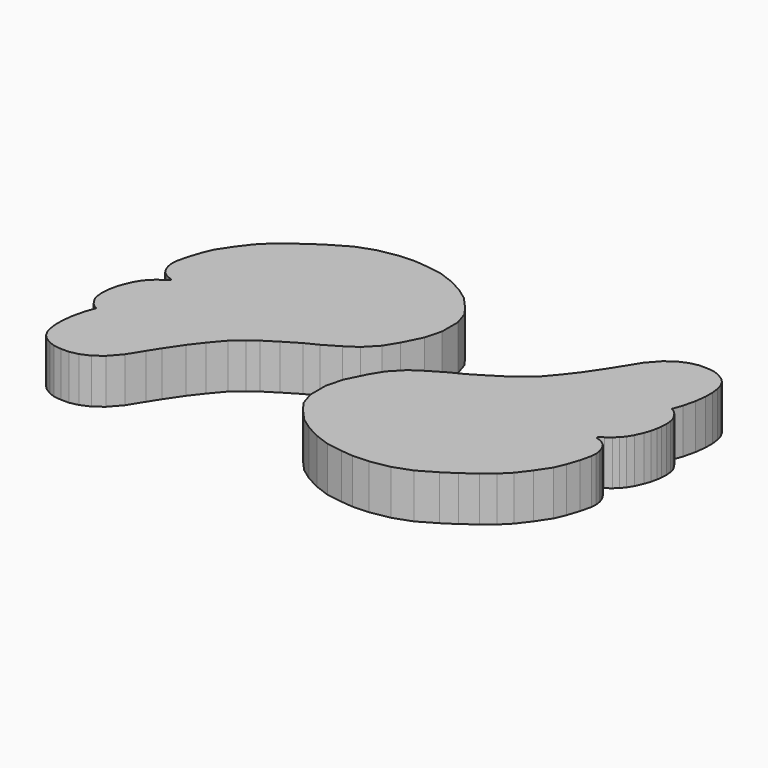
from build123d import *

# Parameters (mm, degrees)
PAD036_DEPTH            = 5
BODY036_PLACEMENT_ANGLE = 180
PAD035_DEPTH            = 5


with BuildPart() as body036:
    # Sketch038 → Pad036 (new body)
    with BuildSketch(Plane.XY):
        Polygon((-0.715895, 10.459235), (0.958153, 11.443971), (2.336782, 12.133285), (4.060069, 13.167257), (5.537171, 14.102756), (6.536532, 14.831632), (7.712062, 15.853839), (8.973101, 17.336113), (10.079276, 18.774139), (11.296068, 20.566143), (12.092514, 21.827183), (13.116936, 23.475929), (14.223111, 24.736969), (15.240791, 25.489166), (16.280596, 25.931637), (17.221134, 26.137039), (18.110924, 26.137039), (18.926565, 26.048061), (19.579077, 25.810783), (20.261248, 25.395548), (20.720972, 24.935823), (21.062059, 24.312971), (21.241928, 23.641508), (21.345737, 22.840698), (21.345737, 21.87676), (21.197439, 20.690374), (20.871256, 19.321636), (20.485682, 18.239059), (20.894186, 17.997505), (21.202349, 17.699284), (21.480688, 17.301653), (21.749088, 16.804617), (21.858437, 16.327463), (21.90814, 15.76084), (21.878248, 15.092189), (21.808664, 14.545448), (21.659552, 13.879419), (21.430916, 13.203449), (21.042017, 12.334372), (20.664268, 11.708105), (20.256699, 11.221009), (19.799425, 10.813439), (19.252686, 10.395929), (18.77553, 10.048003), (18.764149, 9.924158), (18.923201, 9.834691), (19.221422, 9.765106), (19.569347, 9.566292), (19.998131, 9.245623), (20.23671, 8.897697), (20.435524, 8.450364), (20.544872, 8.11238), (20.634338, 7.525877), (20.584635, 6.919492), (20.302982, 5.715654), (19.850153, 4.339052), (19.361095, 3.179808), (18.328644, 1.640186), (17.289362, 0.272043), (16.238798, -0.778522), (15.043327, -1.720408), (13.576158, -2.8072), (12.181441, -3.71286), (10.236815, -4.842392), (8.226252, -5.56692), (6.107007, -5.947297), (4.295688, -6.01975), (2.991537, -5.892957), (1.173591, -5.613963), (-0.443623, -5.019885), (-1.961825, -4.227778), (-3.248996, -3.303655), (-4.536168, -1.884467), (-5.262265, -0.86133), (-5.75733, 0.656871), (-5.75733, 2.868166), (-5.262265, 4.716413), (-4.237876, 6.772507), (-3.346758, 8.224701), (-2.043983, 9.573533), align=None)
    extrude(amount=PAD036_DEPTH)


with BuildPart() as body036_1:
    # Body036 placement: moved
    add(body036.part.moved(Location((-10, 20, -5))).rotate(Axis((-10, 20, -5), (0, 0, 1)), BODY036_PLACEMENT_ANGLE))


with BuildPart() as fusion004:
    # Sketch037 → Pad035 (new body)
    with BuildSketch(Plane.XY):
        Polygon((-0.715895, 10.459235), (0.958153, 11.443971), (2.336782, 12.133285), (4.060069, 13.167257), (5.537171, 14.102756), (6.536532, 14.831632), (7.712062, 15.853839), (8.973101, 17.336113), (10.079276, 18.774139), (11.296068, 20.566143), (12.092514, 21.827183), (13.116936, 23.475929), (14.223111, 24.736969), (15.240791, 25.489166), (16.280596, 25.931637), (17.221134, 26.137039), (18.110924, 26.137039), (18.926565, 26.048061), (19.579077, 25.810783), (20.261248, 25.395548), (20.720972, 24.935823), (21.062059, 24.312971), (21.241928, 23.641508), (21.345737, 22.840698), (21.345737, 21.87676), (21.197439, 20.690374), (20.871256, 19.321636), (20.485682, 18.239059), (20.894186, 17.997505), (21.202349, 17.699284), (21.480688, 17.301653), (21.749088, 16.804617), (21.858437, 16.327463), (21.90814, 15.76084), (21.878248, 15.092189), (21.808664, 14.545448), (21.659552, 13.879419), (21.430916, 13.203449), (21.042017, 12.334372), (20.664268, 11.708105), (20.256699, 11.221009), (19.799425, 10.813439), (19.252686, 10.395929), (18.77553, 10.048003), (18.764149, 9.924158), (18.923201, 9.834691), (19.221422, 9.765106), (19.569347, 9.566292), (19.998131, 9.245623), (20.23671, 8.897697), (20.435524, 8.450364), (20.544872, 8.11238), (20.634338, 7.525877), (20.584635, 6.919492), (20.302982, 5.715654), (19.850153, 4.339052), (19.361095, 3.179808), (18.328644, 1.640186), (17.289362, 0.272043), (16.238798, -0.778522), (15.043327, -1.720408), (13.576158, -2.8072), (12.181441, -3.71286), (10.236815, -4.842392), (8.226252, -5.56692), (6.107007, -5.947297), (4.295688, -6.01975), (2.991537, -5.892957), (1.173591, -5.613963), (-0.443623, -5.019885), (-1.961825, -4.227778), (-3.248996, -3.303655), (-4.536168, -1.884467), (-5.262265, -0.86133), (-5.75733, 0.656871), (-5.75733, 2.868166), (-5.262265, 4.716413), (-4.237876, 6.772507), (-3.346758, 8.224701), (-2.043983, 9.573533), align=None)
    extrude(amount=PAD035_DEPTH)


with BuildPart() as fusion004_1:
    # Body035 placement: moved
    add(fusion004.part.moved(Location((0, 0, -5))))

    # Fusion004: union Body036
    add(body036_1.part)


with BuildPart() as fusion004_2:
    # Fusion004 placement: moved
    add(fusion004_1.part.moved(Location((-50, 60, 0))))


solid = fusion004_2.part
